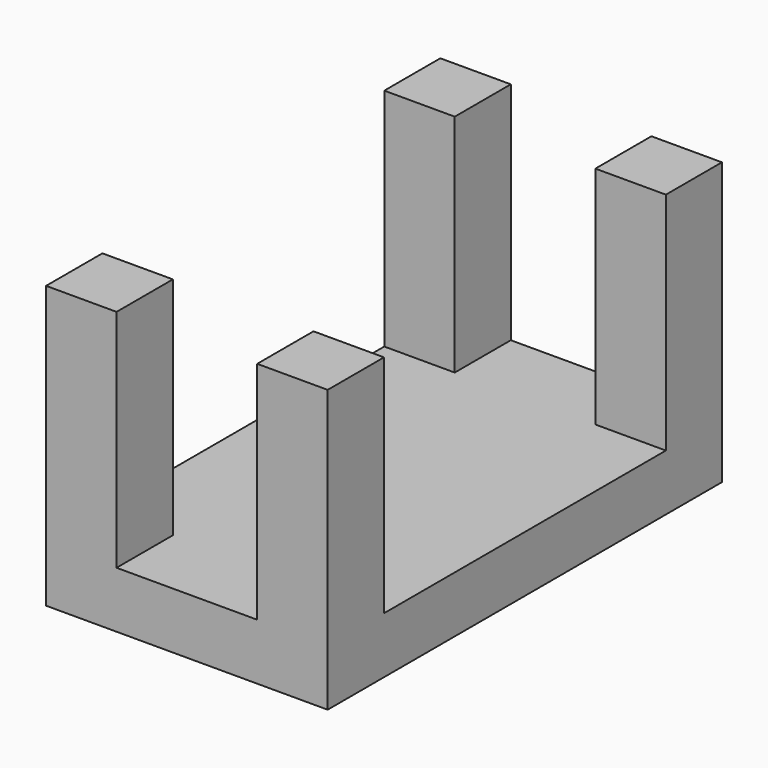
from build123d import *

# Parameters (mm, degrees)
F0_W     = 5.0057400763
F0_H     = 4.9761364609
F0_W_2   = 5.0067808479
F0_H_2   = 4.999563098
F1_DEPTH = 4
F2_DEPTH = 20


with BuildPart() as f1:
    # F0 (on Top) → F1 (new body)
    with BuildSketch(Plane.XY):
        with Locations((-42.000279054, 37.7524894848)):
            Rectangle(F0_W, F0_H)
        Polygon((-29.5099299401, 40.2405577153), (-39.4974090159, 40.2405577153), (-39.4974090159, 35.2644212544), (-44.5031490922, 35.2644212544), (-44.5031490922, 10.2401208133), (-39.4974090159, 10.2401208133), (-39.4974090159, 5.2405577153), (-29.5099299401, 5.2405577153), (-29.5099299401, 10.2401208133), (-24.5031490922, 10.2401208133), (-24.5031490922, 35.2644212544), (-29.5099299401, 35.2644212544), align=None)
        with Locations((-27.0065395162, 37.7524894848)):
            Rectangle(F0_W_2, F0_H)
        with Locations((-42.000279054, 7.7403392643)):
            Rectangle(F0_W, F0_H_2)
        with Locations((-27.0065395162, 7.7403392643)):
            Rectangle(F0_W_2, F0_H_2)
    extrude(amount=F1_DEPTH)

    # F0 (on Top) → F2 (join)
    with BuildSketch(Plane.XY):
        with Locations((-27.0065395162, 37.7524894848)):
            Rectangle(F0_W_2, F0_H)
        with Locations((-42.000279054, 37.7524894848)):
            Rectangle(F0_W, F0_H)
        with Locations((-42.000279054, 7.7403392643)):
            Rectangle(F0_W, F0_H_2)
        with Locations((-27.0065395162, 7.7403392643)):
            Rectangle(F0_W_2, F0_H_2)
    extrude(amount=F2_DEPTH)


solid = f1.part
